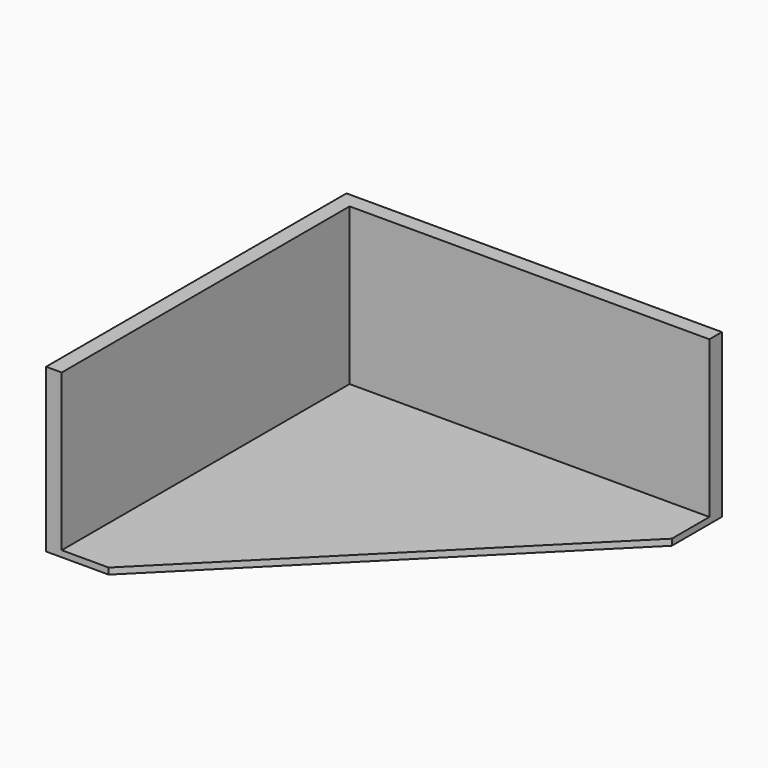
from build123d import *

# Parameters (mm, degrees)
F1_DEPTH = 2
F3_DEPTH = 50


with BuildPart() as f1:
    # F0 (on Top) → F1 (new body)
    with BuildSketch(Plane.XY):
        Polygon((60, 60), (-60, 60), (-60, -60), (-40, -60), (60, 40), align=None)
    extrude(amount=F1_DEPTH)

    # F2 (on face) → F3 (join)
    with BuildSketch(Plane.XY.offset(2)):
        Polygon((60, 55), (60, 60), (-60, 60), (-60, 55), (-60, -60), (-55, -60), (-55, 55), align=None)
    extrude(amount=F3_DEPTH)


solid = f1.part
